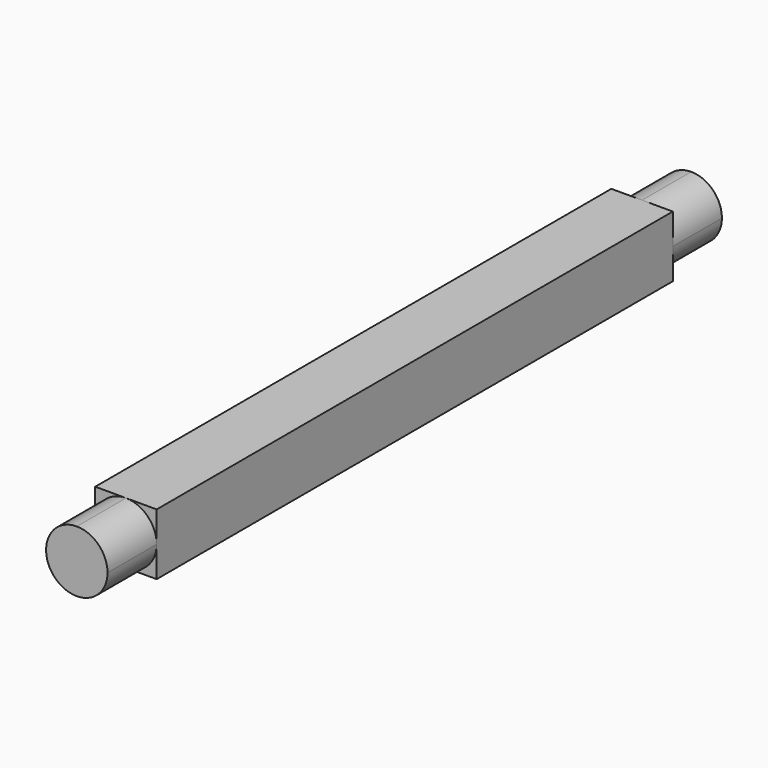
from build123d import *

# Parameters (mm, degrees)
F0_W     = 4
F0_H     = 4
F1_DEPTH = 50
F3_DEPTH = 4
F5_DEPTH = 4


with BuildPart() as f1:
    # F0 (on Front) → F1 (new body)
    with BuildSketch(Plane.XZ):
        Rectangle(F0_W, F0_H)
    extrude(amount=F1_DEPTH)

    # F2 (on face) → F3 (cut)
    with BuildSketch(Plane(origin=(0, 0, 0), x_dir=(-1, 0, 0), z_dir=(0, 1, 0))):
        with BuildLine():
            ThreePointArc((-2, 0), (-1.4142135624, 1.4142135624), (0, 2))
            Line((0, 2), (-2, 2))
            Line((-2, 2), (-2, 0))
        make_face()
        with BuildLine():
            Line((-2, -2), (0, -2))
            ThreePointArc((0, -2), (-1.4142135624, -1.4142135624), (-2, 0))
            Line((-2, 0), (-2, -2))
        make_face()
        with BuildLine():
            Line((2, -2), (2, 0))
            ThreePointArc((2, 0), (1.4142135624, -1.4142135624), (0, -2))
            Line((0, -2), (2, -2))
        make_face()
        with BuildLine():
            ThreePointArc((0, 2), (1.4142135624, 1.4142135624), (2, 0))
            Line((2, 0), (2, 2))
            Line((2, 2), (0, 2))
        make_face()
    extrude(amount=-F3_DEPTH, mode=Mode.SUBTRACT)

    # F4 (on face) → F5 (cut)
    with BuildSketch(Plane.XZ.offset(50)):
        with BuildLine():
            ThreePointArc((-2, 0), (-1.4142135624, 1.4142135624), (0, 2))
            Line((0, 2), (-2, 2))
            Line((-2, 2), (-2, 0))
        make_face()
        with BuildLine():
            Line((-2, -2), (0, -2))
            ThreePointArc((0, -2), (-1.4142135624, -1.4142135624), (-2, 0))
            Line((-2, 0), (-2, -2))
        make_face()
        with BuildLine():
            Line((2, -2), (2, 0))
            ThreePointArc((2, 0), (1.4142135624, -1.4142135624), (0, -2))
            Line((0, -2), (2, -2))
        make_face()
        with BuildLine():
            ThreePointArc((0, 2), (1.4142135624, 1.4142135624), (2, 0))
            Line((2, 0), (2, 2))
            Line((2, 2), (0, 2))
        make_face()
    extrude(amount=-F5_DEPTH, mode=Mode.SUBTRACT)


solid = f1.part
